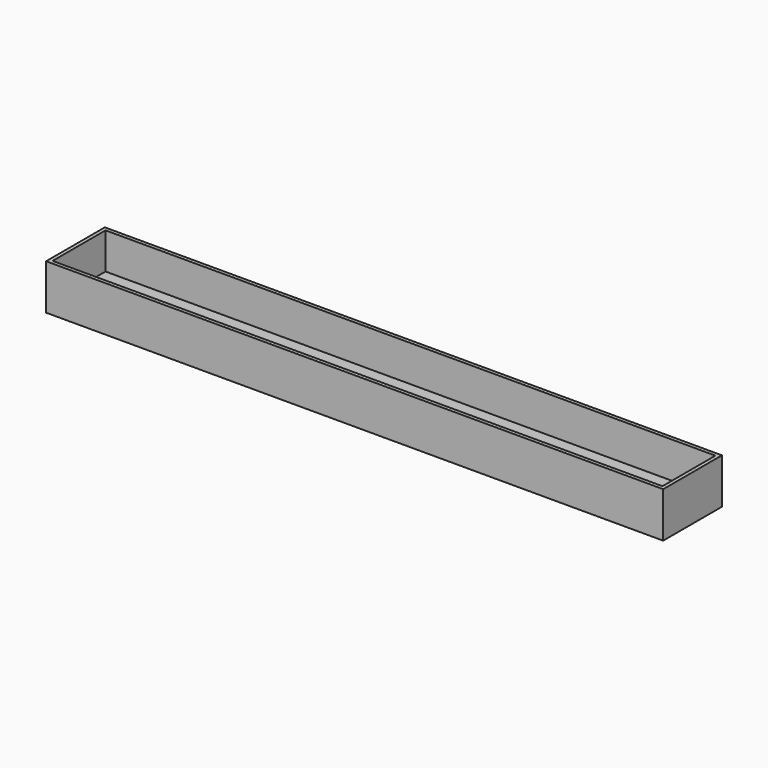
from build123d import *

# Parameters (mm, degrees)
F0_W     = 68.1
F0_H     = 8.1
F0_W_2   = 67.3
F0_H_2   = 7.3
F1_DEPTH = 5
F2_DEPTH = 1


with BuildPart() as f1:
    # F0 (on Top) → F1 (new body)
    with BuildSketch(Plane.XY):
        with Locations((34.05, 4.05)):
            Rectangle(F0_W, F0_H)
        with Locations((34.05, 4.05)):
            Rectangle(F0_W_2, F0_H_2, mode=Mode.SUBTRACT)
    extrude(amount=F1_DEPTH)

    # F0 (on Top) → F2 (join)
    with BuildSketch(Plane.XY):
        with Locations((34.05, 4.05)):
            Rectangle(F0_W, F0_H)
        with Locations((34.05, 4.05)):
            Rectangle(F0_W_2, F0_H_2, mode=Mode.SUBTRACT)
        with Locations((34.05, 4.05)):
            Rectangle(F0_W_2, F0_H_2)
    extrude(amount=F2_DEPTH)


solid = f1.part
